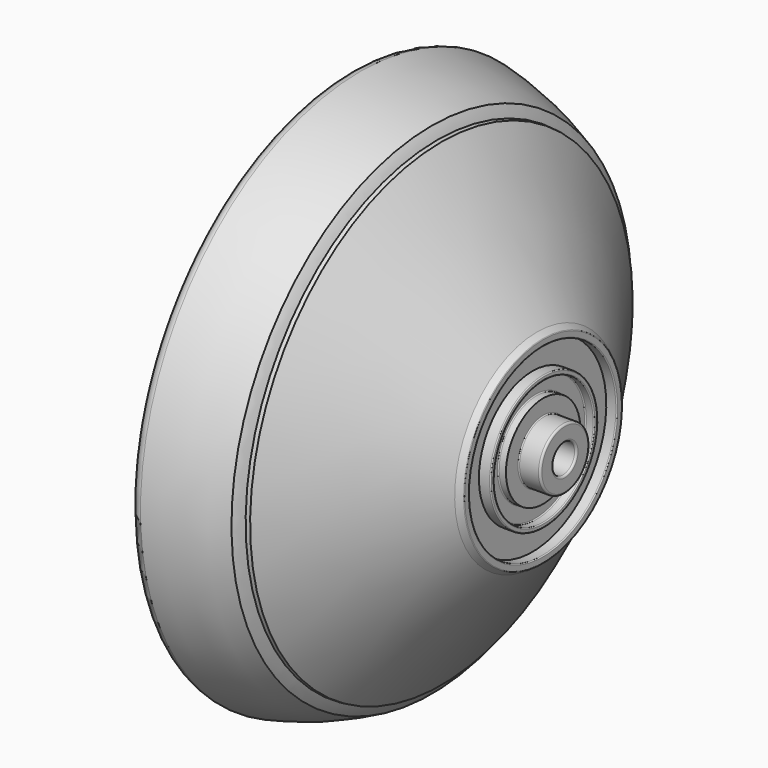
from build123d import *


with BuildPart() as f1:
    # F0 (on Front) → F1 (revolve)
    with BuildSketch(Plane.XZ):
        with BuildLine():
            ThreePointArc((22.25, 2.975), (22.191421, 3.116421), (22.05, 3.175))
            Line((22.05, 3.175), (20.1, 3.175))
            ThreePointArc((20.1, 3.175), (20.029289, 3.204289), (20, 3.275))
            Line((20, 3.275), (20, 4.821733))
            Line((20, 4.821733), (19.3, 4.821733))
            ThreePointArc((19.3, 4.821733), (19.229289, 4.851022), (19.2, 4.921733))
            Line((19.2, 4.921733), (19.2, 6.377))
            ThreePointArc((19.2, 6.377), (19.229289, 6.447711), (19.3, 6.477))
            Line((19.3, 6.477), (20, 6.477))
            ThreePointArc((20, 6.477), (20.070711, 6.506289), (20.1, 6.577))
            Line((20.1, 6.577), (20.1, 6.85))
            ThreePointArc((20.1, 6.85), (20.070711, 6.920711), (20, 6.95))
            Line((20, 6.95), (18.9, 6.95))
            Line((18.9, 6.95), (18.9, 9.55))
            Line((18.9, 9.55), (19.9, 9.55))
            ThreePointArc((19.9, 9.55), (19.970711, 9.579289), (20, 9.65))
            Line((20, 9.65), (20, 10.172818))
            ThreePointArc((20, 10.172818), (19.988726, 10.218944), (19.957448, 10.25467))
            Line((19.957448, 10.25467), (19.367264, 10.668889))
            Line((19.367264, 10.668889), (9.454993, 24.770183))
            Line((9.454993, 24.770183), (9.025772, 24.811061))
            ThreePointArc((9.025772, 24.811061), (8.762073, 25.379329), (8.438532, 25.915787))
            ThreePointArc((8.438532, 25.915787), (4.8357, 27.447232), (1.055259, 28.464084))
            ThreePointArc((1.055259, 28.464084), (0.028463, 27.6992), (0.588929, 26.548011))
            Line((0.588929, 26.548011), (4.10733, 24.951822))
            ThreePointArc((4.10733, 24.951822), (4.375596, 24.750964), (4.534655, 24.455988))
            Line((4.534655, 24.455988), (5.169482, 22.229439))
            ThreePointArc((5.169482, 22.229439), (5.381046, 21.842319), (5.738598, 21.583903))
            Line((5.738598, 21.583903), (8.636715, 20.346922))
            ThreePointArc((8.636715, 20.346922), (8.723887, 20.30461), (8.806556, 20.25406))
            Line((8.806556, 20.25406), (12.916994, 17.458301))
            ThreePointArc((12.916994, 17.458301), (13.047238, 17.352714), (13.158011, 17.226852))
            Line((13.158011, 17.226852), (16.921917, 12.148069))
            ThreePointArc((16.921917, 12.148069), (17.0991, 11.748673), (17.089075, 11.311856))
            ThreePointArc((17.089075, 11.311856), (16.009426, 5.701665), (15.647607, 0))
            Line((15.647607, 0), (16.208489, 0))
            Line((16.208489, 0), (18.25, 1.5))
            Line((18.25, 1.5), (22.05, 1.5))
            ThreePointArc((22.05, 1.5), (22.191421, 1.558579), (22.25, 1.7))
            Line((22.25, 1.7), (22.25, 2.975))
        make_face()
    revolve(axis=Axis((15.928048, 0, 0), (1, 0, 0)))


solid = f1.part
